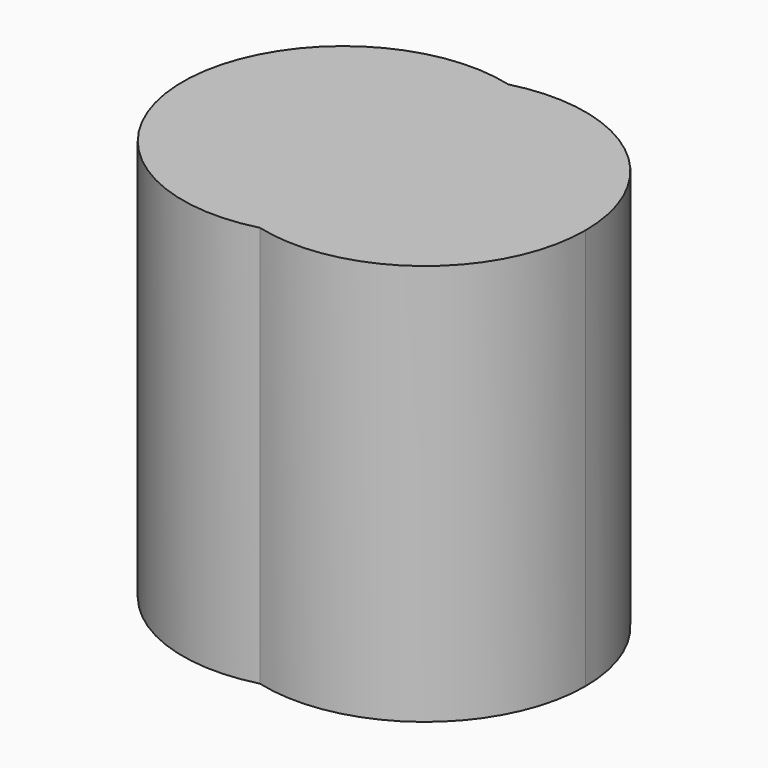
from build123d import *

# Parameters (mm, degrees)
F1_DEPTH = 6


with BuildPart() as f1:
    # F0 (on Top) → F1 (new body)
    with BuildSketch(Plane.XY):
        with BuildLine():
            ThreePointArc((1.802007, -2.321323), (0.011481, 0), (1.802007, 2.321323))
            ThreePointArc((1.802007, 2.321323), (-1.207467, 0), (1.802007, -2.321323))
        make_face()
        with BuildLine():
            ThreePointArc((1.802007, -2.321323), (3.877302, -1.90036), (4.811481, 0))
            ThreePointArc((4.811481, 0), (3.877302, 1.90036), (1.802007, 2.321323))
            ThreePointArc((1.802007, 2.321323), (3.092893, 1.465821), (3.592533, 0))
            ThreePointArc((3.592533, 0), (3.092893, -1.465821), (1.802007, -2.321323))
        make_face()
        with BuildLine():
            ThreePointArc((3.592533, 0), (3.092893, 1.465821), (1.802007, 2.321323))
            ThreePointArc((1.802007, 2.321323), (0.011481, 0), (1.802007, -2.321323))
            ThreePointArc((1.802007, -2.321323), (3.092893, -1.465821), (3.592533, 0))
        make_face()
    extrude(amount=F1_DEPTH)


solid = f1.part
